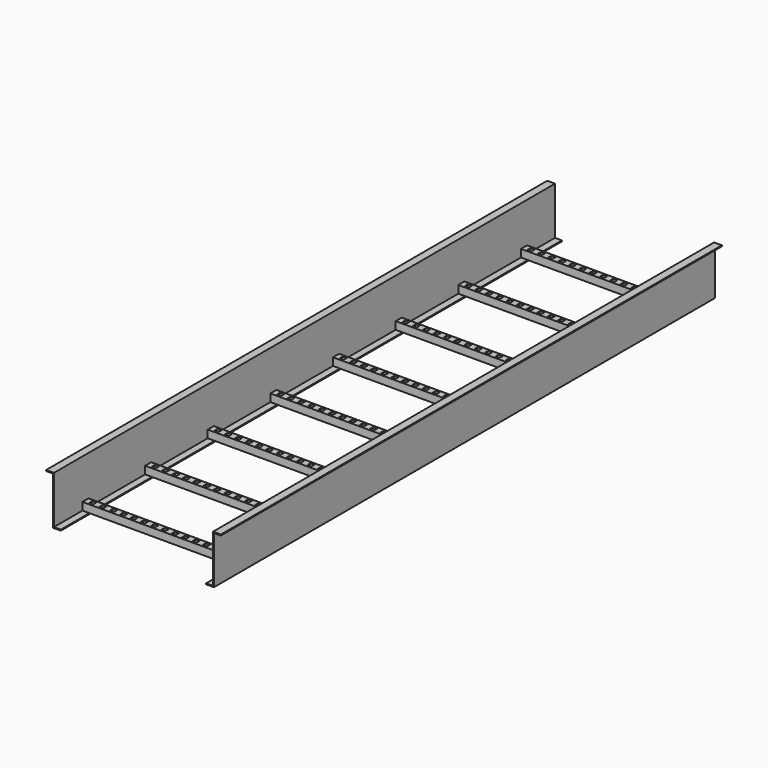
from build123d import *

# Parameters (mm, degrees)
F1_DEPTH = 2000
F3_DEPTH = 508
F4_W     = 13
F4_H     = 13
F5_DEPTH = 5


with BuildPart() as f1:
    # F0 (on Front) → F1 (new body)
    with BuildSketch(Plane.XZ):
        Polygon((374.102988, 63.658662), (374.102988, -88.741338), (352.102988, -88.741338), (352.102988, -91.741338), (377.102988, -91.741338), (377.102988, 60.658662), (399.102988, 60.658662), (399.102988, 63.658662), align=None)
        Polygon((-158.897012, 60.658662), (-136.897012, 60.658662), (-136.897012, -91.741338), (-111.897012, -91.741338), (-111.897012, -88.741338), (-133.897012, -88.741338), (-133.897012, 63.658662), (-158.897012, 63.658662), align=None)
    extrude(amount=-F1_DEPTH)


with BuildPart() as f3:
    # F2 (on face) → F3 (new body)
    with BuildSketch(Plane.YZ.offset(-133.897012)):
        Polygon((364, -64.341338), (364, -88.741338), (367, -88.741338), (367, -67.341338), (385.4, -67.341338), (385.4, -88.741338), (388.4, -88.741338), (388.4, -64.341338), align=None)
        Polygon((614, -64.341338), (614, -88.741338), (617, -88.741338), (617, -67.341338), (635.4, -67.341338), (635.4, -88.741338), (638.4, -88.741338), (638.4, -64.341338), align=None)
        Polygon((864, -64.341338), (864, -88.741338), (867, -88.741338), (867, -67.341338), (885.4, -67.341338), (885.4, -88.741338), (888.4, -88.741338), (888.4, -64.341338), align=None)
        Polygon((1114, -64.341338), (1114, -88.741338), (1117, -88.741338), (1117, -67.341338), (1135.4, -67.341338), (1135.4, -88.741338), (1138.4, -88.741338), (1138.4, -64.341338), align=None)
        Polygon((1385.4, -88.741338), (1388.4, -88.741338), (1388.4, -64.341338), (1364, -64.341338), (1364, -88.741338), (1367, -88.741338), (1367, -67.341338), (1385.4, -67.341338), align=None)
        Polygon((1635.4, -88.741338), (1638.4, -88.741338), (1638.4, -64.341338), (1614, -64.341338), (1614, -88.741338), (1617, -88.741338), (1617, -67.341338), (1635.4, -67.341338), align=None)
        Polygon((1885.4, -88.741338), (1888.4, -88.741338), (1888.4, -64.341338), (1864, -64.341338), (1864, -88.741338), (1867, -88.741338), (1867, -67.341338), (1885.4, -67.341338), align=None)
        Polygon((114, -64.341338), (114, -88.741338), (117, -88.741338), (117, -67.341338), (135.4, -67.341338), (135.4, -88.741338), (138.4, -88.741338), (138.4, -64.341338), align=None)
    extrude(amount=F3_DEPTH)

    # F4 (on face) → F5 (cut)
    with BuildSketch(Plane.XY.offset(-64.341338)):
        with Locations((-111.056283, 126.2)):
            Rectangle(F4_W, F4_H)
        with Locations((-111.056283, 376.2)):
            Rectangle(F4_W, F4_H)
        with Locations((-111.056283, 626.2)):
            Rectangle(F4_W, F4_H)
        with Locations((-111.056283, 876.2)):
            Rectangle(F4_W, F4_H)
        with Locations((-111.056283, 1126.2)):
            Rectangle(F4_W, F4_H)
        with Locations((-111.056283, 1376.2)):
            Rectangle(F4_W, F4_H)
        with Locations((-111.056283, 1626.2)):
            Rectangle(F4_W, F4_H)
        with Locations((-111.056283, 1876.2)):
            Rectangle(F4_W, F4_H)
        with Locations((-78.056283, 126.2)):
            Rectangle(F4_W, F4_H)
        with Locations((-78.056283, 376.2)):
            Rectangle(F4_W, F4_H)
        with Locations((-78.056283, 626.2)):
            Rectangle(F4_W, F4_H)
        with Locations((-78.056283, 876.2)):
            Rectangle(F4_W, F4_H)
        with Locations((-78.056283, 1126.2)):
            Rectangle(F4_W, F4_H)
        with Locations((-78.056283, 1376.2)):
            Rectangle(F4_W, F4_H)
        with Locations((-78.056283, 1626.2)):
            Rectangle(F4_W, F4_H)
        with Locations((-78.056283, 1876.2)):
            Rectangle(F4_W, F4_H)
        with Locations((-45.056283, 126.2)):
            Rectangle(F4_W, F4_H)
        with Locations((-45.056283, 376.2)):
            Rectangle(F4_W, F4_H)
        with Locations((-45.056283, 626.2)):
            Rectangle(F4_W, F4_H)
        with Locations((-45.056283, 876.2)):
            Rectangle(F4_W, F4_H)
        with Locations((-45.056283, 1126.2)):
            Rectangle(F4_W, F4_H)
        with Locations((-45.056283, 1376.2)):
            Rectangle(F4_W, F4_H)
        with Locations((-45.056283, 1626.2)):
            Rectangle(F4_W, F4_H)
        with Locations((-45.056283, 1876.2)):
            Rectangle(F4_W, F4_H)
        with Locations((-12.056283, 126.2)):
            Rectangle(F4_W, F4_H)
        with Locations((-12.056283, 376.2)):
            Rectangle(F4_W, F4_H)
        with Locations((-12.056283, 626.2)):
            Rectangle(F4_W, F4_H)
        with Locations((-12.056283, 876.2)):
            Rectangle(F4_W, F4_H)
        with Locations((-12.056283, 1126.2)):
            Rectangle(F4_W, F4_H)
        with Locations((-12.056283, 1376.2)):
            Rectangle(F4_W, F4_H)
        with Locations((-12.056283, 1626.2)):
            Rectangle(F4_W, F4_H)
        with Locations((-12.056283, 1876.2)):
            Rectangle(F4_W, F4_H)
        with Locations((20.943717, 126.2)):
            Rectangle(F4_W, F4_H)
        with Locations((20.943717, 376.2)):
            Rectangle(F4_W, F4_H)
        with Locations((20.943717, 626.2)):
            Rectangle(F4_W, F4_H)
        with Locations((20.943717, 876.2)):
            Rectangle(F4_W, F4_H)
        with Locations((20.943717, 1126.2)):
            Rectangle(F4_W, F4_H)
        with Locations((20.943717, 1376.2)):
            Rectangle(F4_W, F4_H)
        with Locations((20.943717, 1626.2)):
            Rectangle(F4_W, F4_H)
        with Locations((20.943717, 1876.2)):
            Rectangle(F4_W, F4_H)
        with Locations((53.943717, 126.2)):
            Rectangle(F4_W, F4_H)
        with Locations((53.943717, 376.2)):
            Rectangle(F4_W, F4_H)
        with Locations((53.943717, 626.2)):
            Rectangle(F4_W, F4_H)
        with Locations((53.943717, 876.2)):
            Rectangle(F4_W, F4_H)
        with Locations((53.943717, 1126.2)):
            Rectangle(F4_W, F4_H)
        with Locations((53.943717, 1376.2)):
            Rectangle(F4_W, F4_H)
        with Locations((53.943717, 1626.2)):
            Rectangle(F4_W, F4_H)
        with Locations((53.943717, 1876.2)):
            Rectangle(F4_W, F4_H)
        with Locations((86.943717, 126.2)):
            Rectangle(F4_W, F4_H)
        with Locations((86.943717, 376.2)):
            Rectangle(F4_W, F4_H)
        with Locations((86.943717, 626.2)):
            Rectangle(F4_W, F4_H)
        with Locations((86.943717, 876.2)):
            Rectangle(F4_W, F4_H)
        with Locations((86.943717, 1126.2)):
            Rectangle(F4_W, F4_H)
        with Locations((86.943717, 1376.2)):
            Rectangle(F4_W, F4_H)
        with Locations((86.943717, 1626.2)):
            Rectangle(F4_W, F4_H)
        with Locations((86.943717, 1876.2)):
            Rectangle(F4_W, F4_H)
        with Locations((119.943717, 126.2)):
            Rectangle(F4_W, F4_H)
        with Locations((119.943717, 376.2)):
            Rectangle(F4_W, F4_H)
        with Locations((119.943717, 626.2)):
            Rectangle(F4_W, F4_H)
        with Locations((119.943717, 876.2)):
            Rectangle(F4_W, F4_H)
        with Locations((119.943717, 1126.2)):
            Rectangle(F4_W, F4_H)
        with Locations((119.943717, 1376.2)):
            Rectangle(F4_W, F4_H)
        with Locations((119.943717, 1626.2)):
            Rectangle(F4_W, F4_H)
        with Locations((119.943717, 1876.2)):
            Rectangle(F4_W, F4_H)
        with Locations((152.943717, 126.2)):
            Rectangle(F4_W, F4_H)
        with Locations((152.943717, 376.2)):
            Rectangle(F4_W, F4_H)
        with Locations((152.943717, 626.2)):
            Rectangle(F4_W, F4_H)
        with Locations((152.943717, 876.2)):
            Rectangle(F4_W, F4_H)
        with Locations((152.943717, 1126.2)):
            Rectangle(F4_W, F4_H)
        with Locations((152.943717, 1376.2)):
            Rectangle(F4_W, F4_H)
        with Locations((152.943717, 1626.2)):
            Rectangle(F4_W, F4_H)
        with Locations((152.943717, 1876.2)):
            Rectangle(F4_W, F4_H)
        with Locations((185.943717, 126.2)):
            Rectangle(F4_W, F4_H)
        with Locations((185.943717, 376.2)):
            Rectangle(F4_W, F4_H)
        with Locations((185.943717, 626.2)):
            Rectangle(F4_W, F4_H)
        with Locations((185.943717, 876.2)):
            Rectangle(F4_W, F4_H)
        with Locations((185.943717, 1126.2)):
            Rectangle(F4_W, F4_H)
        with Locations((185.943717, 1376.2)):
            Rectangle(F4_W, F4_H)
        with Locations((185.943717, 1626.2)):
            Rectangle(F4_W, F4_H)
        with Locations((185.943717, 1876.2)):
            Rectangle(F4_W, F4_H)
        with Locations((218.943717, 126.2)):
            Rectangle(F4_W, F4_H)
        with Locations((218.943717, 376.2)):
            Rectangle(F4_W, F4_H)
        with Locations((218.943717, 626.2)):
            Rectangle(F4_W, F4_H)
        with Locations((218.943717, 876.2)):
            Rectangle(F4_W, F4_H)
        with Locations((218.943717, 1126.2)):
            Rectangle(F4_W, F4_H)
        with Locations((218.943717, 1376.2)):
            Rectangle(F4_W, F4_H)
        with Locations((218.943717, 1626.2)):
            Rectangle(F4_W, F4_H)
        with Locations((218.943717, 1876.2)):
            Rectangle(F4_W, F4_H)
        with Locations((251.943717, 126.2)):
            Rectangle(F4_W, F4_H)
        with Locations((251.943717, 376.2)):
            Rectangle(F4_W, F4_H)
        with Locations((251.943717, 626.2)):
            Rectangle(F4_W, F4_H)
        with Locations((251.943717, 876.2)):
            Rectangle(F4_W, F4_H)
        with Locations((251.943717, 1126.2)):
            Rectangle(F4_W, F4_H)
        with Locations((251.943717, 1376.2)):
            Rectangle(F4_W, F4_H)
        with Locations((251.943717, 1626.2)):
            Rectangle(F4_W, F4_H)
        with Locations((251.943717, 1876.2)):
            Rectangle(F4_W, F4_H)
        with Locations((284.943717, 126.2)):
            Rectangle(F4_W, F4_H)
        with Locations((284.943717, 376.2)):
            Rectangle(F4_W, F4_H)
        with Locations((284.943717, 626.2)):
            Rectangle(F4_W, F4_H)
        with Locations((284.943717, 876.2)):
            Rectangle(F4_W, F4_H)
        with Locations((284.943717, 1126.2)):
            Rectangle(F4_W, F4_H)
        with Locations((284.943717, 1376.2)):
            Rectangle(F4_W, F4_H)
        with Locations((284.943717, 1626.2)):
            Rectangle(F4_W, F4_H)
        with Locations((284.943717, 1876.2)):
            Rectangle(F4_W, F4_H)
        with Locations((317.943717, 126.2)):
            Rectangle(F4_W, F4_H)
        with Locations((317.943717, 376.2)):
            Rectangle(F4_W, F4_H)
        with Locations((317.943717, 626.2)):
            Rectangle(F4_W, F4_H)
        with Locations((317.943717, 876.2)):
            Rectangle(F4_W, F4_H)
        with Locations((317.943717, 1126.2)):
            Rectangle(F4_W, F4_H)
        with Locations((317.943717, 1376.2)):
            Rectangle(F4_W, F4_H)
        with Locations((317.943717, 1626.2)):
            Rectangle(F4_W, F4_H)
        with Locations((317.943717, 1876.2)):
            Rectangle(F4_W, F4_H)
        with Locations((350.943717, 126.2)):
            Rectangle(F4_W, F4_H)
        with Locations((350.943717, 376.2)):
            Rectangle(F4_W, F4_H)
        with Locations((350.943717, 626.2)):
            Rectangle(F4_W, F4_H)
        with Locations((350.943717, 876.2)):
            Rectangle(F4_W, F4_H)
        with Locations((350.943717, 1126.2)):
            Rectangle(F4_W, F4_H)
        with Locations((350.943717, 1376.2)):
            Rectangle(F4_W, F4_H)
        with Locations((350.943717, 1626.2)):
            Rectangle(F4_W, F4_H)
        with Locations((350.943717, 1876.2)):
            Rectangle(F4_W, F4_H)
    extrude(amount=-F5_DEPTH, mode=Mode.SUBTRACT)


solid = Compound([f1.part, f3.part])
